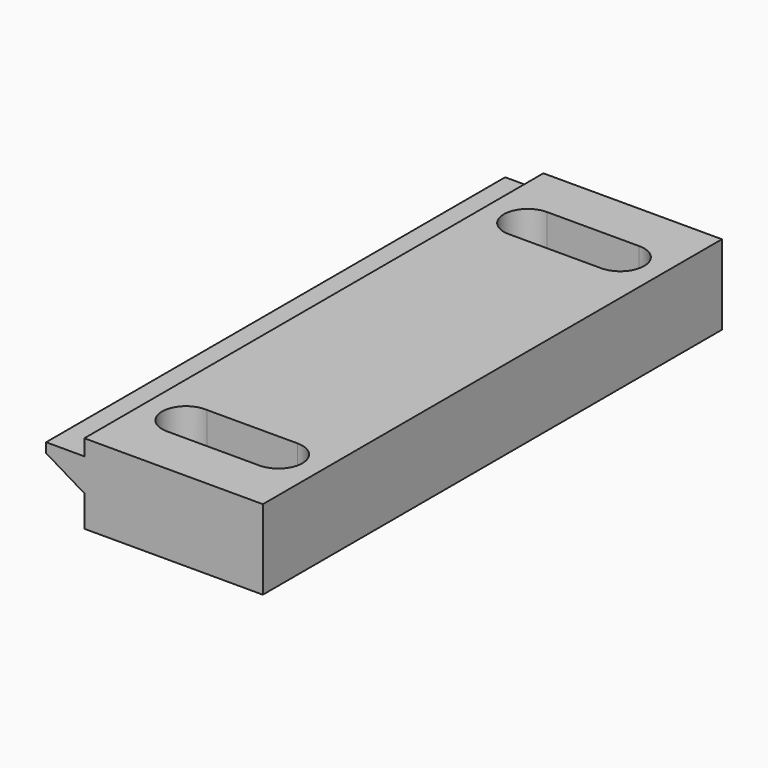
from build123d import *

# Parameters (mm, degrees)
F1_DEPTH = 180
F3_DEPTH = 10
F5_DEPTH = 25


with BuildPart() as f1:
    # F0 (on Front) → F1 (new body)
    with BuildSketch(Plane.XZ):
        Polygon((56, 0), (0, 0), (0, -5), (-12, -5), (-12, -8), (0, -15.2), (0, -17), (0, -25), (56, -25), align=None)
    extrude(amount=F1_DEPTH)

    # F2 (on face) → F3 (cut)
    with BuildSketch(Plane.XY):
        with BuildLine():
            Line((13.500019, -164.5), (42.466399, -164.499925))
            ThreePointArc((42.466399, -164.499925), (50, -157), (42.466399, -149.500075))
            Line((42.466399, -149.500075), (14.039766, -149.519448))
            ThreePointArc((14.039766, -149.519448), (6.004863, -156.729951), (13.500019, -164.5))
        make_face()
        with BuildLine():
            Line((13.500019, -30.5), (42.466399, -30.499925))
            ThreePointArc((42.466399, -30.499925), (50, -23), (42.466399, -15.500075))
            Line((42.466399, -15.500075), (13.500019, -15.5))
            ThreePointArc((13.500019, -15.5), (6, -23), (13.500019, -30.5))
        make_face()
    extrude(amount=-F3_DEPTH, mode=Mode.SUBTRACT)

    # F4 (on face) → F5 (cut)
    with BuildSketch(Plane.XY):
        with BuildLine():
            Line((42.5, -18), (13.5, -18))
            ThreePointArc((13.5, -18), (8.5, -23), (13.5, -28))
            Line((13.5, -28), (42.5, -28))
            ThreePointArc((42.5, -28), (47.5, -23), (42.5, -18))
        make_face()
        with BuildLine():
            Line((42.5, -152), (13.5, -152))
            ThreePointArc((13.5, -152), (8.5, -157), (13.5, -162))
            Line((13.5, -162), (42.5, -162))
            ThreePointArc((42.5, -162), (47.5, -157), (42.5, -152))
        make_face()
    extrude(amount=-F5_DEPTH, mode=Mode.SUBTRACT)


solid = f1.part
